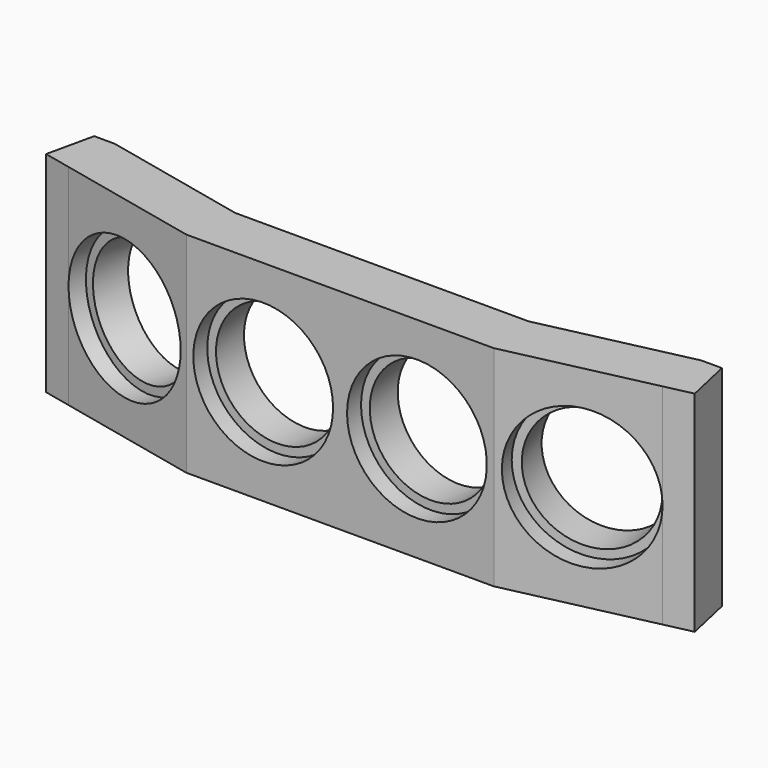
from build123d import *

# Parameters (mm, degrees)
F1_DEPTH  = 30
F3_DEPTH  = 2.5
F5_DEPTH  = 2.5
F7_DEPTH  = 2.5
F9_DEPTH  = 2.5
F10_R     = 8.75
F11_DEPTH = 25.4
F12_R     = 8.75
F13_DEPTH = 25.4
F14_R     = 8.75
F15_DEPTH = 25.4
F16_R     = 8.75
F17_DEPTH = 25.4


with BuildPart() as f1:
    # F0 (on Top) → F1 (new body)
    with BuildSketch(Plane.XY):
        Polygon((-0.9761436398, 0.2171257572), (0, 0), (1, 0), (1, 2.5), (21, 2.5), (21, 0), (23, 0), (23, 2.5), (43, 2.5), (43, 0), (44, 0), (44.9761436398, 0.2171257572), (44.4333292469, 2.6574848567), (63.9562020435, 7), (64.4990164364, 4.5596409004), (68.4035909957, 5.4281439291), (66.9059129229, 12.1613336914), (63.9562020435, 12.1613336914), (43, 7.5), (1, 7.5), (-19.9562020435, 12.1613336914), (-22.9059129229, 12.1613336914), (-24.4035909957, 5.4281439291), (-20.4990164364, 4.5596409004), (-19.9562020435, 7), (-0.4333292469, 2.6574848567), align=None)
    extrude(amount=F1_DEPTH)

    # F2 (on face) → F3 (join)
    with BuildSketch(Plane(origin=(0.5428143929, 2.4403590996, 0), x_dir=(0.9761436398, -0.2171257572, 0), z_dir=(-0.2171257572, -0.9761436398, 0))):
        with BuildLine():
            ThreePointArc((-1, 15), (-11, 5), (-21, 15))
            Line((-21, 15), (-21, 0))
            Line((-21, 0), (-1, 0))
            Line((-1, 0), (-1, 15))
        make_face()
        with BuildLine():
            Line((-1, 30), (-21, 30))
            Line((-21, 30), (-21, 15))
            ThreePointArc((-21, 15), (-11, 25), (-1, 15))
            Line((-1, 15), (-1, 30))
        make_face()
    extrude(amount=F3_DEPTH)

    # F4 (on face) → F5 (join)
    with BuildSketch(Plane.XZ.offset(-2.5)):
        with BuildLine():
            ThreePointArc((21, 15), (11, 5), (1, 15))
            Line((1, 15), (1, 0))
            Line((1, 0), (21, 0))
            Line((21, 0), (21, 15))
        make_face()
        with BuildLine():
            Line((21, 30), (1, 30))
            Line((1, 30), (1, 15))
            ThreePointArc((1, 15), (11, 25), (21, 15))
            Line((21, 15), (21, 30))
        make_face()
    extrude(amount=F5_DEPTH)

    # F6 (on face) → F7 (join)
    with BuildSketch(Plane.XZ.offset(-2.5)):
        with BuildLine():
            Line((43, 30), (23, 30))
            Line((23, 30), (23, 15))
            ThreePointArc((23, 15), (33, 25), (43, 15))
            Line((43, 15), (43, 30))
        make_face()
        with BuildLine():
            ThreePointArc((43, 15), (33, 5), (23, 15))
            Line((23, 15), (23, 0))
            Line((23, 0), (43, 0))
            Line((43, 0), (43, 15))
        make_face()
    extrude(amount=F7_DEPTH)

    # F8 (on face) → F9 (join)
    with BuildSketch(Plane(origin=(1.5315037617, -6.8852616839, 0), x_dir=(0.9761436398, 0.2171257572, 0), z_dir=(0.2171257572, -0.9761436398, 0))):
        with BuildLine():
            Line((63.9503201524, 30), (43.9503201524, 30))
            Line((43.9503201524, 30), (43.9503201524, 15))
            ThreePointArc((43.9503201524, 15), (53.9503201524, 25), (63.9503201524, 15))
            Line((63.9503201524, 15), (63.9503201524, 30))
        make_face()
        with BuildLine():
            ThreePointArc((63.9503201524, 15), (53.9503201524, 5), (43.9503201524, 15))
            Line((43.9503201524, 15), (43.9503201524, 0))
            Line((43.9503201524, 0), (63.9503201524, 0))
            Line((63.9503201524, 0), (63.9503201524, 15))
        make_face()
    extrude(amount=F9_DEPTH)

    # F10 (on face) → F11 (cut)
    with BuildSketch(Plane.XZ.offset(-2.5)):
        with Locations((11, 15)):
            Circle(F10_R)
    extrude(amount=-F11_DEPTH, mode=Mode.SUBTRACT)

    # F12 (on face) → F13 (cut)
    with BuildSketch(Plane.XZ.offset(-2.5)):
        with Locations((33, 15)):
            Circle(F12_R)
    extrude(amount=-F13_DEPTH, mode=Mode.SUBTRACT)

    # F14 (on face) → F15 (cut)
    with BuildSketch(Plane(origin=(1.5315037617, -6.8852616839, 0), x_dir=(0.9761436398, 0.2171257572, 0), z_dir=(0.2171257572, -0.9761436398, 0))):
        with Locations((53.9503201524, 15)):
            Circle(F14_R)
    extrude(amount=-F15_DEPTH, mode=Mode.SUBTRACT)

    # F16 (on face) → F17 (cut)
    with BuildSketch(Plane(origin=(0.5428143929, 2.4403590996, 0), x_dir=(0.9761436398, -0.2171257572, 0), z_dir=(-0.2171257572, -0.9761436398, 0))):
        with Locations((-11, 15)):
            Circle(F16_R)
    extrude(amount=-F17_DEPTH, mode=Mode.SUBTRACT)


solid = f1.part
